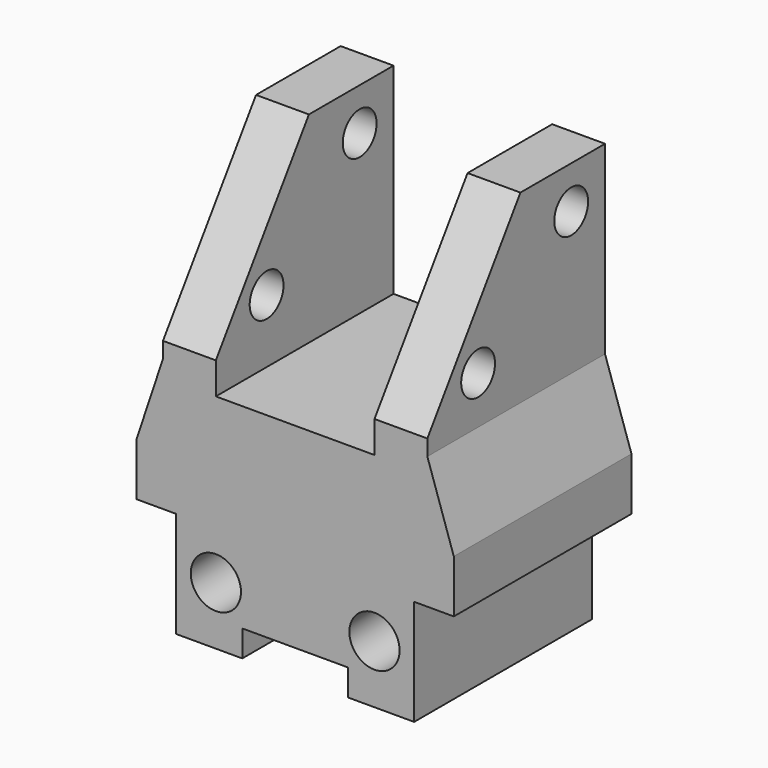
from build123d import *

# Parameters (mm, degrees)
F1_DEPTH        = 30
F2_W            = 30
F2_H            = 38
F2_W_2          = 7.5
F2_H_2          = 20
F2_W_3          = 20
F2_H_3          = 5
F3_DEPTH        = 42
F4_R            = 4.75
F4_R_2          = 2.75
F5_DEPTH        = 22
F6_DEPTH        = 42
F8_D            = 8
F8_DEPTH        = 9
F8_TIP          = 2.4034424761
F10_D           = 8
F10_DEPTH       = 50
F10_CBORE_D     = 10
F10_CBORE_DEPTH = 2
F10_TIP         = 2.4034424761
F11_D           = 8
F11_DEPTH       = 50
F11_TIP         = 2.4034424761


with BuildPart() as f1:
    # F0 (on Right) → F1 (new body, symmetric)
    with BuildSketch(Plane.YZ):
        Polygon((21, -40), (21, 40), (1, 40), (-21, 8), (-21, -40), align=None)
    extrude(amount=F1_DEPTH, both=True)

    # F2 (on face) → F3 (cut)
    with BuildSketch(Plane.XZ.offset(21)):
        Polygon((30, 8), (30, 40), (25, 40), (25, 5), (30, -10), align=None)
        with Locations((0, 21)):
            Rectangle(F2_W, F2_H)
        with Locations((-26.25, -30)):
            Rectangle(F2_W_2, F2_H_2)
        with Locations((26.25, -30)):
            Rectangle(F2_W_2, F2_H_2)
        Polygon((-30, -10), (-25, 5), (-25, 40), (-30, 40), (-30, 8), align=None)
        with Locations((0, -37.5)):
            Rectangle(F2_W_3, F2_H_3)
    extrude(amount=-F3_DEPTH, mode=Mode.SUBTRACT)

    # F4 (on face) → F5 (cut)
    with BuildSketch(Plane.XZ.offset(21)):
        with Locations((15, -29)):
            Circle(F4_R)
        with Locations((15, -29)):
            Circle(F4_R_2, mode=Mode.SUBTRACT)
        with Locations((-15, -29)):
            Circle(F4_R)
        with Locations((-15, -29)):
            Circle(F4_R_2, mode=Mode.SUBTRACT)
        with Locations((-15, -29)):
            Circle(F4_R_2)
        with Locations((15, -29)):
            Circle(F4_R_2)
    extrude(amount=-F5_DEPTH, mode=Mode.SUBTRACT)

    # F4 (on face) → F6 (cut)
    with BuildSketch(Plane.XZ.offset(21)):
        with Locations((-15, -29)):
            Circle(F4_R_2)
        with Locations((15, -29)):
            Circle(F4_R_2)
    extrude(amount=-F6_DEPTH, mode=Mode.SUBTRACT)

    # F8
    with Locations(Plane.XY.offset(2)):
        with Locations((0, 11)):
            Hole(F8_D / 2, depth=F8_DEPTH)
            with Locations((0, 0, -(F8_DEPTH + F8_TIP / 2))):  # 118° drill point
                Cone(0, F8_D / 2, F8_TIP, mode=Mode.SUBTRACT)

    # F10
    with Locations(Plane(origin=(-25, 0, 0), x_dir=(0, -1, 0), z_dir=(-1, 0, 0))):
        with Locations((-13, 32)):
            CounterBoreHole(F10_D / 2, F10_CBORE_D / 2, F10_CBORE_DEPTH, depth=F10_DEPTH)
            with Locations((0, 0, -(F10_DEPTH + F10_TIP / 2))):  # 118° drill point
                Cone(0, F10_D / 2, F10_TIP, mode=Mode.SUBTRACT)

    # F11
    with Locations(Plane(origin=(-25, 0, 0), x_dir=(0, -1, 0), z_dir=(-1, 0, 0))):
        with Locations((9, 14)):
            Hole(F11_D / 2, depth=F11_DEPTH)
            with Locations((0, 0, -(F11_DEPTH + F11_TIP / 2))):  # 118° drill point
                Cone(0, F11_D / 2, F11_TIP, mode=Mode.SUBTRACT)


solid = f1.part
